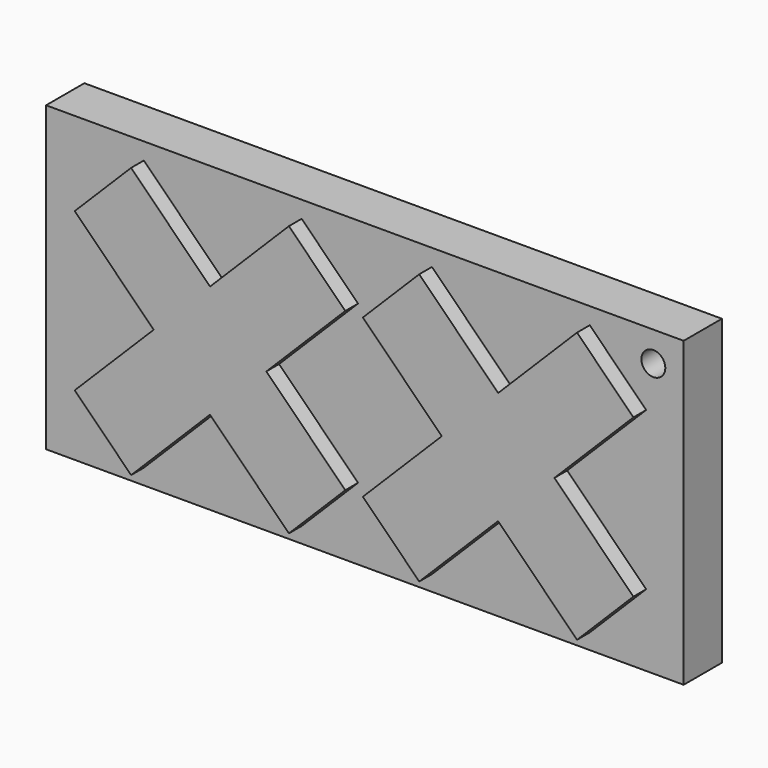
from build123d import *

# Parameters (mm, degrees)
F1_DEPTH = 10.16
F3_W     = 101.6
F3_H     = 48.26
F4_DEPTH = 7.62
F6_D     = 3.81
F7_DEPTH = 10.16


with BuildPart() as f1:
    # F0 (on Front) → F1 (new body)
    with BuildSketch(Plane.XZ):
        Polygon((-65.0621421844, 12.5723585695), (-52.4897836149, 0), (-65.0621421844, -12.5723585695), (-56.0818860633, -21.5526146906), (-43.5095274938, -8.9802561211), (-30.9371689243, -21.5526146906), (-21.9569128032, -12.5723585695), (-34.5292713727, 0), (-21.9569128032, 12.5723585695), (-30.9371689243, 21.5526146906), (-43.5095274938, 8.9802561211), (-56.0818860633, 21.5526146906), align=None)
    extrude(amount=F1_DEPTH)


with BuildPart() as f4:
    # F3 (on Front) → F4 (new body)
    with BuildSketch(Plane.XZ):
        with Locations((-20.8633753091, 0.1001527655)):
            Rectangle(F3_W, F3_H)
    extrude(amount=F4_DEPTH)

    # F6 (through all)
    with Locations(Plane.XZ.offset(7.62)):
        with Locations((25.1038074493, 19.465520978)):
            Hole(F6_D / 2)


with BuildPart() as f7:
    # F2 (on Front) → F7 (new body)
    with BuildSketch(Plane.XZ):
        Polygon((-19.1503611602, 12.5723585695), (-6.5780025907, 0), (-19.1503611602, -12.5723585695), (-10.1701050391, -21.5526146906), (2.4022535304, -8.9802561211), (14.9746120999, -21.5526146906), (23.9548682209, -12.5723585695), (11.3825096515, 0), (23.9548682209, 12.5723585695), (14.9746120999, 21.5526146906), (2.4022535304, 8.9802561211), (-10.1701050391, 21.5526146906), align=None)
    extrude(amount=F7_DEPTH)


solid = Compound([f1.part, f4.part, f7.part])
